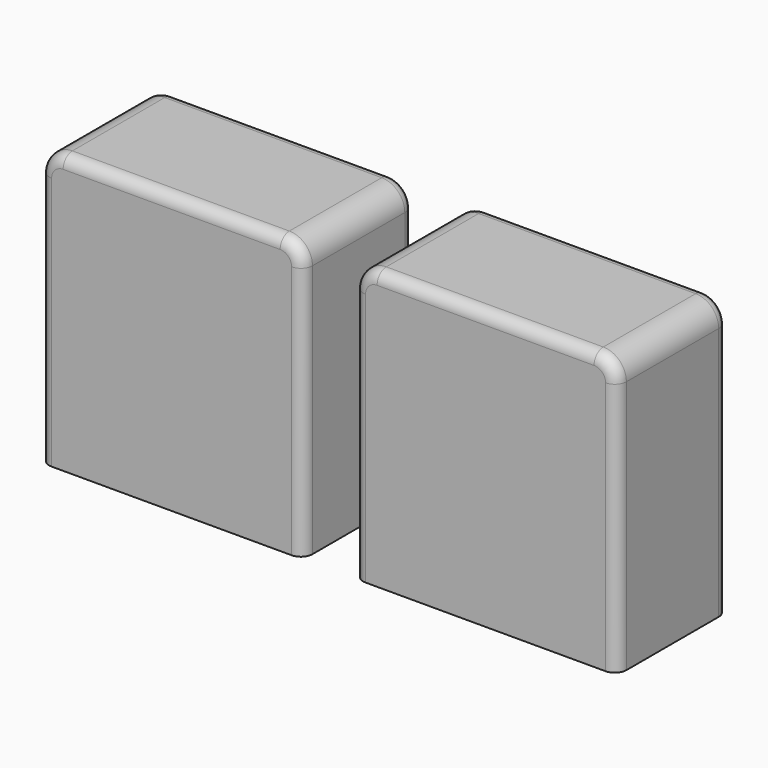
from build123d import *

# Parameters (mm, degrees)
F0_W     = 570
F0_H     = 300
F1_DEPTH = 600
F2_R     = 50
F3_R     = 25


with BuildPart() as f1:
    # F0 (on Top) → F1 (new body)
    with BuildSketch(Plane.XY):
        with Locations((-340, -330)):
            Rectangle(F0_W, F0_H)
    extrude(amount=F1_DEPTH)

    # F2
    f2_edges = [f1.edges().sort_by_distance(p)[0] for p in [
        (-625, -330, 600),
        (-55, -330, 600),
    ]]
    fillet(f2_edges, radius=F2_R)

    # F3
    f3_edges = [f1.edges().sort_by_distance(p)[0] for p in [
        (-625, -480, 275),
        (-340, -480, 600),
        (-55, -480, 275),
        (-55, -180, 275),
    ]]
    fillet(f3_edges, radius=F3_R)


with BuildPart() as f4_1:
    # F4: instance of F1
    add(f1.part.mirror(Plane.YZ))


solid = Compound([f1.part, f4_1.part])
